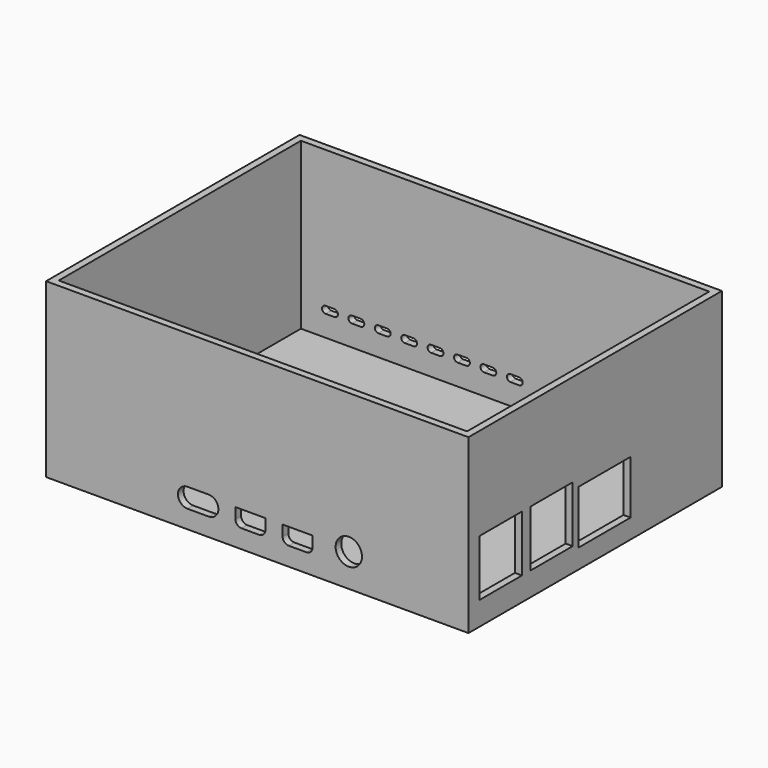
from build123d import *

# Parameters (mm, degrees)
SKETCH001_W     = 120
SKETCH001_H     = 90
PAD_DEPTH       = 2
SKETCH_W        = 120
SKETCH_H        = 90
SKETCH_W_2      = 116
SKETCH_H_2      = 86
PAD001_DEPTH    = 47
SKETCH002_W     = 15
SKETCH002_H     = 16
SKETCH002_W_2   = 18.55
SKETCH002_H_2   = 15.2
POCKET_DEPTH    = 5
SKETCH003_R     = 3.75
POCKET001_DEPTH = 5
POCKET002_DEPTH = 5


with BuildPart() as part:
    # Sketch001 → Pad (new body)
    with BuildSketch(Plane.XY):
        with Locations((60, 45)):
            Rectangle(SKETCH001_W, SKETCH001_H)
    extrude(amount=PAD_DEPTH)

    # Sketch (on Face6 of Pad) → Pad001 (join)
    with BuildSketch(Plane.XY.offset(2)):
        with Locations((60, 45)):
            Rectangle(SKETCH_W, SKETCH_H)
        with Locations((60, 45)):
            Rectangle(SKETCH_W_2, SKETCH_H_2, mode=Mode.SUBTRACT)
    extrude(amount=PAD001_DEPTH)

    # Sketch002 (on Face8 of Pad001) → Pocket (cut)
    with BuildSketch(Plane.YZ.offset(120)):
        with Locations((11.5, 14.7)):
            Rectangle(SKETCH002_W, SKETCH002_H)
        with Locations((29.5, 14.7)):
            Rectangle(SKETCH002_W, SKETCH002_H)
        with Locations((48.275, 13.1)):
            Rectangle(SKETCH002_W_2, SKETCH002_H_2)
    extrude(amount=-POCKET_DEPTH, mode=Mode.SUBTRACT)

    # Sketch003 (on Face5 of Pocket) → Pocket001 (cut)
    with BuildSketch(Plane.XZ):
        with Locations((86, 9.3)):
            Circle(SKETCH003_R)
        with BuildLine():
            ThreePointArc((40.2, 10.65), (37.45, 7.9), (40.2, 5.15))
            Line((40.2, 5.15), (46.2, 5.15))
            ThreePointArc((46.2, 5.15), (48.95, 7.9), (46.2, 10.65))
            Line((40.2, 10.65), (46.2, 10.65))
        make_face()
        with BuildLine():
            Line((53.8, 10), (62.3, 10))
            Line((62.3, 10), (62.3, 7))
            ThreePointArc((60.55, 5.25), (61.787437, 5.762563), (62.3, 7))
            Line((60.55, 5.25), (55.55, 5.25))
            ThreePointArc((53.8, 7), (54.312563, 5.762563), (55.55, 5.25))
            Line((53.8, 7), (53.8, 10))
        make_face()
        with BuildLine():
            Line((67.2, 10), (75.7, 10))
            Line((75.7, 10), (75.7, 7))
            ThreePointArc((73.95, 5.25), (75.187437, 5.762563), (75.7, 7))
            Line((73.95, 5.25), (68.95, 5.25))
            ThreePointArc((67.2, 7), (67.712563, 5.762563), (68.95, 5.25))
            Line((67.2, 7), (67.2, 10))
        make_face()
    extrude(amount=-POCKET001_DEPTH, mode=Mode.SUBTRACT)

    # Sketch007 (on Face27 of Pocket001) → Pocket002 (cut)
    with BuildSketch(Plane(origin=(0, 90, 0), x_dir=(-1, 0, 0), z_dir=(0, 1, 0))):
        with BuildLine():
            ThreePointArc((-64, 10), (-65, 9), (-64, 8))
            Line((-64, 8), (-61.5, 8))
            ThreePointArc((-61.5, 8), (-60.5, 9), (-61.5, 10))
            Line((-64, 10), (-61.5, 10))
        make_face()
        with BuildLine():
            ThreePointArc((-56.5, 10), (-57.5, 9), (-56.5, 8))
            Line((-56.5, 8), (-54, 8))
            ThreePointArc((-54, 8), (-53, 9), (-54, 10))
            Line((-56.5, 10), (-54, 10))
        make_face()
        with BuildLine():
            ThreePointArc((-49, 10), (-50, 9), (-49, 8))
            Line((-49, 8), (-46.5, 8))
            ThreePointArc((-46.5, 8), (-45.5, 9), (-46.5, 10))
            Line((-49, 10), (-46.5, 10))
        make_face()
        with BuildLine():
            ThreePointArc((-41.5, 10), (-42.5, 9), (-41.5, 8))
            Line((-41.5, 8), (-39, 8))
            ThreePointArc((-39, 8), (-38, 9), (-39, 10))
            Line((-41.5, 10), (-39, 10))
        make_face()
        with BuildLine():
            ThreePointArc((-34, 10), (-35, 9), (-34, 8))
            Line((-34, 8), (-31.5, 8))
            ThreePointArc((-31.5, 8), (-30.5, 9), (-31.5, 10))
            Line((-34, 10), (-31.5, 10))
        make_face()
        with BuildLine():
            ThreePointArc((-26.5, 10), (-27.5, 9), (-26.5, 8))
            Line((-26.5, 8), (-24, 8))
            ThreePointArc((-24, 8), (-23, 9), (-24, 10))
            Line((-26.5, 10), (-24, 10))
        make_face()
        with BuildLine():
            ThreePointArc((-19, 10), (-20, 9), (-19, 8))
            Line((-19, 8), (-16.5, 8))
            ThreePointArc((-16.5, 8), (-15.5, 9), (-16.5, 10))
            Line((-19, 10), (-16.5, 10))
        make_face()
        with BuildLine():
            ThreePointArc((-11.5, 10), (-12.5, 9), (-11.5, 8))
            Line((-11.5, 8), (-9, 8))
            ThreePointArc((-9, 8), (-8, 9), (-9, 10))
            Line((-11.5, 10), (-9, 10))
        make_face()
    extrude(amount=-POCKET002_DEPTH, mode=Mode.SUBTRACT)


solid = part.part
